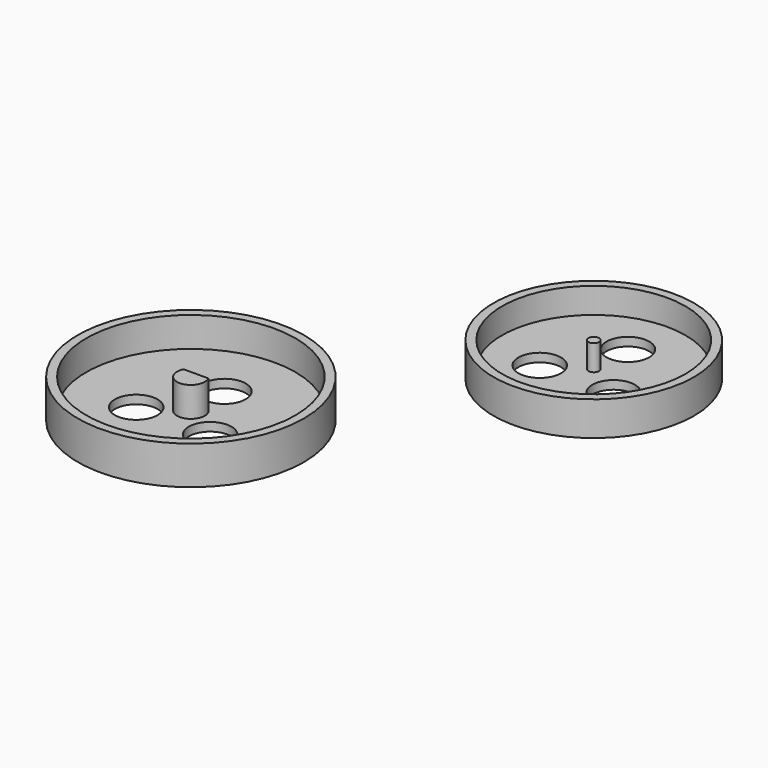
from build123d import *

# Parameters (mm, degrees)
F1_DEPTH = 9
F0_R     = 26.5
F0_R_2   = 24.5
F0_R_3   = 5
F2_DEPTH = 2
F0_R_4   = 23.5
F0_R_5   = 21.5
F5_DEPTH = 8
F0_R_6   = 1.25
F6_DEPTH = 2


with BuildPart() as f1:
    # F0 (on Top) → F1 (new body)
    with BuildSketch(Plane.XY):
        with BuildLine():
            Line((2.8831406487, 1.5), (-2.8831406487, 1.5))
            ThreePointArc((-2.8831406487, 1.5), (0, -3.25), (2.8831406487, 1.5))
        make_face()
    extrude(amount=F1_DEPTH)



with BuildPart() as f1b:
    # F0 (on Top) → F1, piece 2 (new body)
    with BuildSketch(Plane.XY):
        Circle(F0_R)
        Circle(F0_R_2, mode=Mode.SUBTRACT)
    extrude(amount=F1_DEPTH)


with BuildPart() as f1_1:
    add(f1.part)

    add(f1b.part)  # F2 merges F1b
    # F0 (on Top) → F2 (join)
    with BuildSketch(Plane.XY):
        Circle(F0_R_2)
        with Locations((-8.6602540378, -5.1794842726)):
            Circle(F0_R_3, mode=Mode.SUBTRACT)
        with BuildLine():
            ThreePointArc((2.8831406487, 1.5), (0, -3.25), (-2.8831406487, 1.5))
            Line((-2.8831406487, 1.5), (2.8831406487, 1.5))
        make_face(mode=Mode.SUBTRACT)
        with Locations((8.6602540378, -5.1794842726)):
            Circle(F0_R_3, mode=Mode.SUBTRACT)
        with Locations((0, 9.8205157274)):
            Circle(F0_R_3, mode=Mode.SUBTRACT)
    extrude(amount=F2_DEPTH)


with BuildPart() as f3_1:
    # F3: copy of F1
    add(f1_1.part)


with BuildPart() as f5:
    # F0 (on Top) → F5 (new body)
    with BuildSketch(Plane.XY):
        with Locations((47.2870729864, 58.9259437852)):
            Circle(F0_R_4)
        with Locations((47.2870729864, 58.9259437852)):
            Circle(F0_R_5, mode=Mode.SUBTRACT)
    extrude(amount=F5_DEPTH)



with BuildPart() as f5b:
    # F0 (on Top) → F5, piece 2 (new body)
    with BuildSketch(Plane.XY):
        with Locations((47.2870729864, 58.9259437852)):
            Circle(F0_R_6)
    extrude(amount=F5_DEPTH)


with BuildPart() as f5_1:
    add(f5.part)

    add(f5b.part)  # F6 merges F5b
    # F0 (on Top) → F6 (join)
    with BuildSketch(Plane.XY):
        with Locations((47.2870729864, 58.9259437852)):
            Circle(F0_R_5)
        with Locations((38.6268189485, 53.9259437852)):
            Circle(F0_R_3, mode=Mode.SUBTRACT)
        with Locations((55.9473270242, 53.9259437852)):
            Circle(F0_R_3, mode=Mode.SUBTRACT)
        with Locations((47.2870729864, 58.9259437852)):
            Circle(F0_R_6, mode=Mode.SUBTRACT)
        with Locations((47.2870729864, 68.9259437852)):
            Circle(F0_R_3, mode=Mode.SUBTRACT)
    extrude(amount=F6_DEPTH)


solid = Compound([f3_1.part, f5_1.part])
